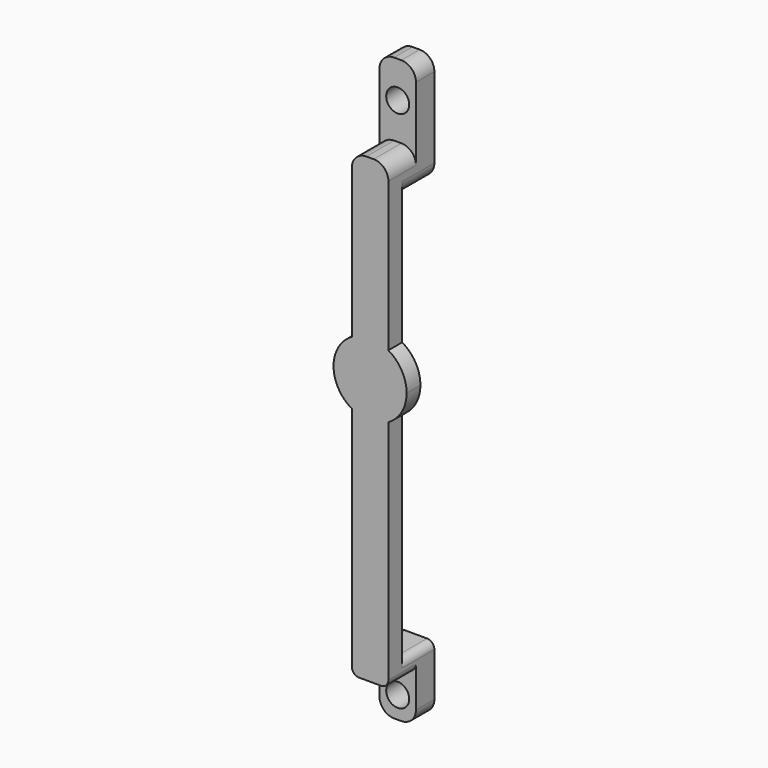
from build123d import *

# Parameters (mm, degrees)
F1_DEPTH  = 3
F2_W      = 6.35
F2_H      = 6.35
F2_H_2    = 3.175
F3_DEPTH  = 7
F4_W      = 6.35
F4_H      = 4
F5_DEPTH  = 12.7
F6_R      = 2
F7_DEPTH  = 25.4
F8_W      = 6.35
F8_H      = 4
F9_DEPTH  = 8.255
F10_R     = 2
F11_DEPTH = 25.4
F12_R     = 2.54
F13_R     = 1.27


with BuildPart() as f1:
    # F0 (on Front) → F1 (new body)
    with BuildSketch(Plane.XZ):
        with BuildLine():
            ThreePointArc((-3.175, 5.499261314), (0, 6.35), (3.175, 5.499261314))
            Line((3.175, 5.499261314), (3.175, 33.909))
            Line((3.175, 33.909), (-3.175, 33.909))
            Line((-3.175, 33.909), (-3.175, 5.499261314))
        make_face()
        with BuildLine():
            Line((-3.175, 0), (-3.175, 5.499261314))
            ThreePointArc((-3.175, 5.499261314), (-6.35, 0), (-3.175, -5.499261314))
            Line((-3.175, -5.499261314), (-3.175, 0))
        make_face()
        with BuildLine():
            ThreePointArc((-3.175, -5.499261314), (0, -6.35), (3.175, -5.499261314))
            Line((3.175, -5.499261314), (3.175, 0))
            Line((3.175, 0), (-3.175, 0))
            Line((-3.175, 0), (-3.175, -5.499261314))
        make_face()
        with BuildLine():
            ThreePointArc((3.175, -5.499261314), (5.499261314, -3.175), (6.35, 0))
            ThreePointArc((6.35, 0), (5.499261314, 3.175), (3.175, 5.499261314))
            Line((3.175, 5.499261314), (3.175, 0))
            Line((3.175, 0), (3.175, -5.499261314))
        make_face()
        with BuildLine():
            Line((3.175, 0), (3.175, 5.499261314))
            ThreePointArc((3.175, 5.499261314), (0, 6.35), (-3.175, 5.499261314))
            Line((-3.175, 5.499261314), (-3.175, 0))
            Line((-3.175, 0), (3.175, 0))
        make_face()
        with BuildLine():
            Line((3.175, -46.228), (3.175, -5.499261314))
            ThreePointArc((3.175, -5.499261314), (0, -6.35), (-3.175, -5.499261314))
            Line((-3.175, -5.499261314), (-3.175, -46.228))
            Line((-3.175, -46.228), (3.175, -46.228))
        make_face()
    extrude(amount=F1_DEPTH)

    # F2 (on face) → F3 (join)
    with BuildSketch(Plane(origin=(0, 0, 0), x_dir=(-1, 0, 0), z_dir=(0, 1, 0))):
        with Locations((0, 30.734)):
            Rectangle(F2_W, F2_H)
        with Locations((0, -44.6405)):
            Rectangle(F2_W, F2_H_2)
    extrude(amount=F3_DEPTH)

    # F4 (on face) → F5 (join)
    with BuildSketch(Plane.XY.offset(33.909)):
        with Locations((0, 5)):
            Rectangle(F4_W, F4_H)
    extrude(amount=F5_DEPTH)

    # F6 (on face) → F7 (cut)
    with BuildSketch(Plane(origin=(0, 7, 0), x_dir=(-1, 0, 0), z_dir=(0, 1, 0))):
        with Locations((0, 40.259)):
            Circle(F6_R)
    extrude(amount=-F7_DEPTH, mode=Mode.SUBTRACT)

    # F8 (on face) → F9 (join)
    with BuildSketch(Plane(origin=(0, 0, -46.228), x_dir=(1, 0, 0), z_dir=(0, 0, -1))):
        with Locations((0, -5)):
            Rectangle(F8_W, F8_H)
    extrude(amount=F9_DEPTH)

    # F10 (on face) → F11 (cut)
    with BuildSketch(Plane(origin=(0, 7, 0), x_dir=(-1, 0, 0), z_dir=(0, 1, 0))):
        with Locations((0, -50.673)):
            Circle(F10_R)
    extrude(amount=-F11_DEPTH, mode=Mode.SUBTRACT)

    # F12
    f12_edges = [f1.edges().sort_by_distance(p)[0] for p in [
        (-3.175, 5, 46.609),
        (3.175, 5, 46.609),
        (-3.175, 3.5, 27.559),
        (3.175, 0, 33.909),
        (-3.175, 0, 33.909),
        (3.175, 3.5, 27.559),
        (-3.175, 5, -54.483),
        (3.175, 5, -54.483),
    ]]
    fillet(f12_edges, radius=F12_R)

    # F13
    f13_edges = [f1.edges().sort_by_distance(p)[0] for p in [
        (3.175, 3.5, -43.053),
        (-3.175, 3.5, -43.053),
        (3.175, 0, -46.228),
        (-3.175, 0, -46.228),
    ]]
    fillet(f13_edges, radius=F13_R)


solid = f1.part
